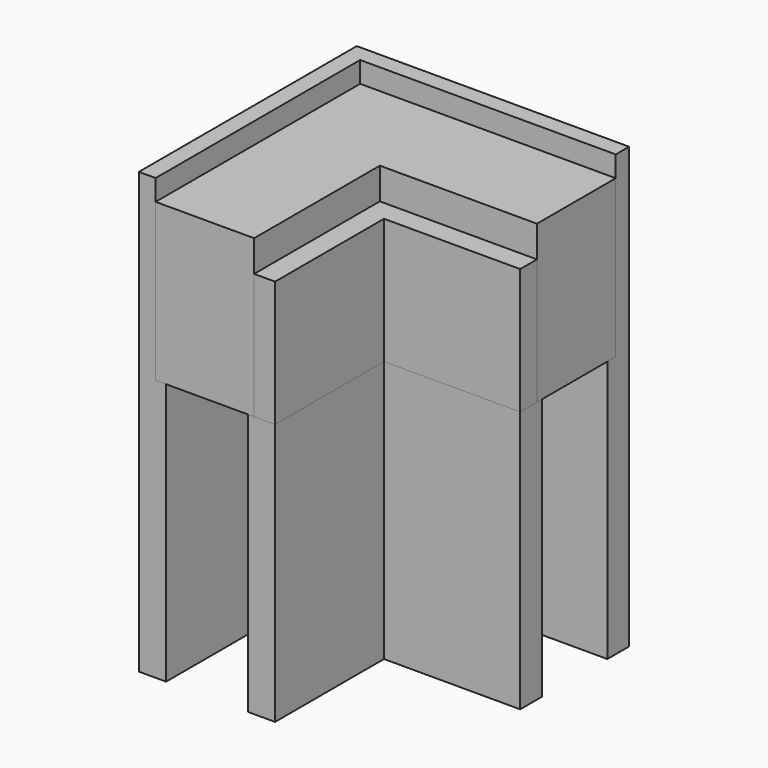
from build123d import *

# Parameters (mm, degrees)
F1_DEPTH = 25
F2_DEPTH = 17
F3_DEPTH = 15
F4_DEPTH = 12


with BuildPart() as f1:
    # F0 (on Top) → F1 (new body)
    with BuildSketch(Plane.XY):
        Polygon((-11.4, -13), (-10.4, -13), (-10.4, 0), (-10.4, 10.4), (0, 10.4), (13, 10.4), (13, 11.4), (0, 11.4), (-11.4, 11.4), (-11.4, 0), align=None)
        Polygon((-13, -13), (-11.4, -13), (-11.4, 0), (-11.4, 11.4), (0, 11.4), (13, 11.4), (13, 13), (0, 13), (-13, 13), (-13, 0), align=None)
        Polygon((-2.6, -13), (-2, -13), (-2, 2), (13, 2), (13, 2.6), (-2.6, 2.6), align=None)
        Polygon((-2, -13), (0, -13), (0, 0), (13, 0), (13, 2), (-2, 2), align=None)
    extrude(amount=-F1_DEPTH)

    # F0 (on Top) → F2 (join)
    with BuildSketch(Plane.XY):
        Polygon((-13, -13), (-11.4, -13), (-11.4, 0), (-11.4, 11.4), (0, 11.4), (13, 11.4), (13, 13), (0, 13), (-13, 13), (-13, 0), align=None)
    extrude(amount=F2_DEPTH)


with BuildPart() as f3:
    # F0 (on Top) → F3 (new body)
    with BuildSketch(Plane.XY):
        Polygon((-11.4, -13), (-10.4, -13), (-10.4, 0), (-10.4, 10.4), (0, 10.4), (13, 10.4), (13, 11.4), (0, 11.4), (-11.4, 11.4), (-11.4, 0), align=None)
        Polygon((-10.4, -13), (-2.6, -13), (-2.6, 2.6), (13, 2.6), (13, 10.4), (0, 10.4), (-10.4, 10.4), (-10.4, 0), align=None)
        Polygon((-2.6, -13), (-2, -13), (-2, 2), (13, 2), (13, 2.6), (-2.6, 2.6), align=None)
    extrude(amount=F3_DEPTH)


with BuildPart() as f4:
    # F0 (on Top) → F4 (new body)
    with BuildSketch(Plane.XY):
        Polygon((-2, -13), (0, -13), (0, 0), (13, 0), (13, 2), (-2, 2), align=None)
    extrude(amount=F4_DEPTH)


solid = Compound([f1.part, f3.part, f4.part])
